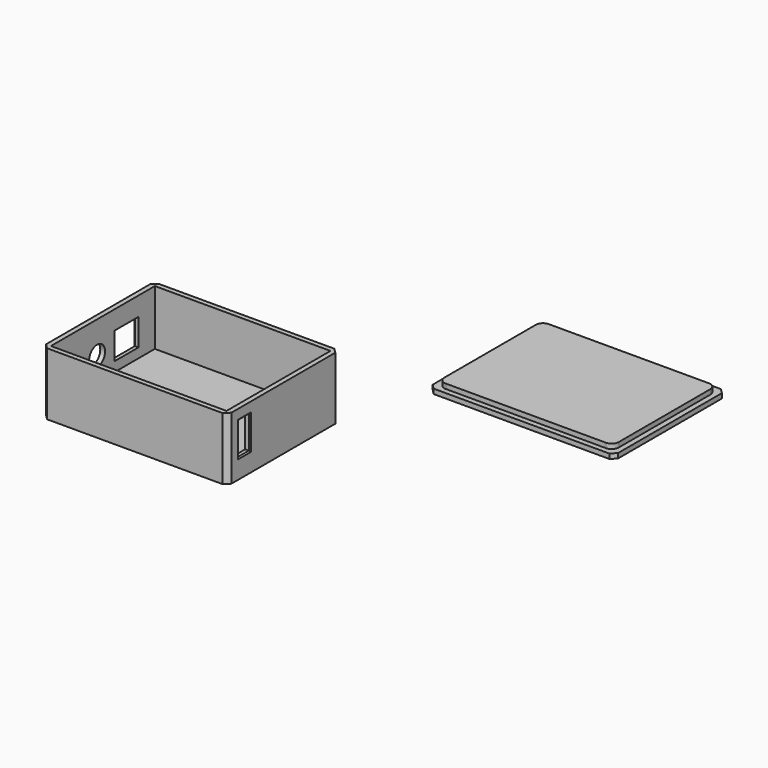
from build123d import *

# Parameters (mm, degrees)
F0_W      = 77
F0_H      = 58
F1_DEPTH  = 3
F2_W      = 77
F2_H      = 58
F2_W_2    = 73
F2_H_2    = 54
F3_DEPTH  = 4
F5_DEPTH  = 19
F6_W      = 2
F6_H      = 7.8
F7_DEPTH  = 25
F9_D      = 8.3
F9_DEPTH  = 10
F9_TIP    = 2.493571569
F10_W     = 5.7
F10_H     = 13.5
F11_DEPTH = 25
F12_SIZE  = 2
F13_SIZE  = 0.5
F14_SIZE  = 0.5
F15_W     = 77
F15_H     = 58
F16_DEPTH = 2
F17_W     = 72.5
F17_H     = 53.5
F18_DEPTH = 2
F19_R     = 3
F20_SIZE  = 2


with BuildPart() as f1:
    # F0 (on Top) → F1 (new body)
    with BuildSketch(Plane.XY):
        Rectangle(F0_W, F0_H)
    extrude(amount=F1_DEPTH)

    # F2 (on face) → F3 (join)
    with BuildSketch(Plane.XY.offset(3)):
        Rectangle(F2_W, F2_H)
        Rectangle(F2_W_2, F2_H_2, mode=Mode.SUBTRACT)
    extrude(amount=F3_DEPTH)

    # F4 (on face) → F5 (join)
    with BuildSketch(Plane.XY.offset(7)):
        Polygon((-38.5, 18.5), (-36.5, 18.5), (-36.5, 27), (36.5, 27), (36.5, -27), (-36.5, -27), (-36.5, 6), (-38.5, 6), (-38.5, -29), (38.5, -29), (38.5, 29), (-38.5, 29), align=None)
    extrude(amount=F5_DEPTH)

    # F6 (on face) → F7 (join)
    with BuildSketch(Plane.XZ.offset(-18.5)):
        with Locations((-37.5, 22.1)):
            Rectangle(F6_W, F6_H)
    extrude(amount=F7_DEPTH)

    # F9
    with Locations(Plane(origin=(-38.5, 0, 0), x_dir=(0, -1, 0), z_dir=(-1, 0, 0))):
        with Locations((3, 12.6)):
            Hole(F9_D / 2, depth=F9_DEPTH)
            with Locations((0, 0, -(F9_DEPTH + F9_TIP / 2))):  # 118° drill point
                Cone(0, F9_D / 2, F9_TIP, mode=Mode.SUBTRACT)

    # F10 (on face) → F11 (cut)
    with BuildSketch(Plane(origin=(36.5, 0, 0), x_dir=(0, -1, 0), z_dir=(-1, 0, 0))):
        with Locations((20.15, 14.75)):
            Rectangle(F10_W, F10_H)
    extrude(amount=-F11_DEPTH, mode=Mode.SUBTRACT)

    # F12
    f12_edges = [f1.edges().sort_by_distance(p)[0] for p in [
        (-38.5, -29, 13),
        (38.5, -29, 13),
        (38.5, 29, 13),
        (-38.5, 29, 13),
    ]]
    chamfer(f12_edges, length=F12_SIZE)

    # F13
    f13_edges = [f1.edges().sort_by_distance(p)[0] for p in [
        (38.5, -17.3, 14.75),
        (38.5, -20.15, 21.5),
        (38.5, -23, 14.75),
        (38.5, -20.15, 8),
    ]]
    chamfer(f13_edges, length=F13_SIZE)

    # F14
    f14_edges = [f1.edges().sort_by_distance(p)[0] for p in [
        (-38.5, 18.5, 12.6),
        (-38.5, 12.25, 18.2),
        (-38.5, 6, 12.6),
        (-38.5, 12.25, 7),
    ]]
    chamfer(f14_edges, length=F14_SIZE)


with BuildPart() as f16:
    # F15 (on Top) → F16 (new body)
    with BuildSketch(Plane.XY):
        with Locations((86.9221650064, 92.2217702333)):
            Rectangle(F15_W, F15_H)
    extrude(amount=F16_DEPTH)

    # F17 (on face) → F18 (join)
    with BuildSketch(Plane.XY.offset(2)):
        with Locations((86.9221650064, 92.2217702333)):
            Rectangle(F17_W, F17_H)
    extrude(amount=F18_DEPTH)

    # F19
    f19_edges = [f16.edges().sort_by_distance(p)[0] for p in [
        (123.172165, 65.47177, 3),
        (50.672165, 65.47177, 3),
        (50.672165, 118.97177, 3),
        (123.172165, 118.97177, 3),
    ]]
    fillet(f19_edges, radius=F19_R)

    # F20
    f20_edges = [f16.edges().sort_by_distance(p)[0] for p in [
        (48.422165, 121.22177, 1),
        (125.422165, 121.22177, 1),
        (125.422165, 63.22177, 1),
        (48.422165, 63.22177, 1),
    ]]
    chamfer(f20_edges, length=F20_SIZE)


solid = Compound([f1.part, f16.part])
